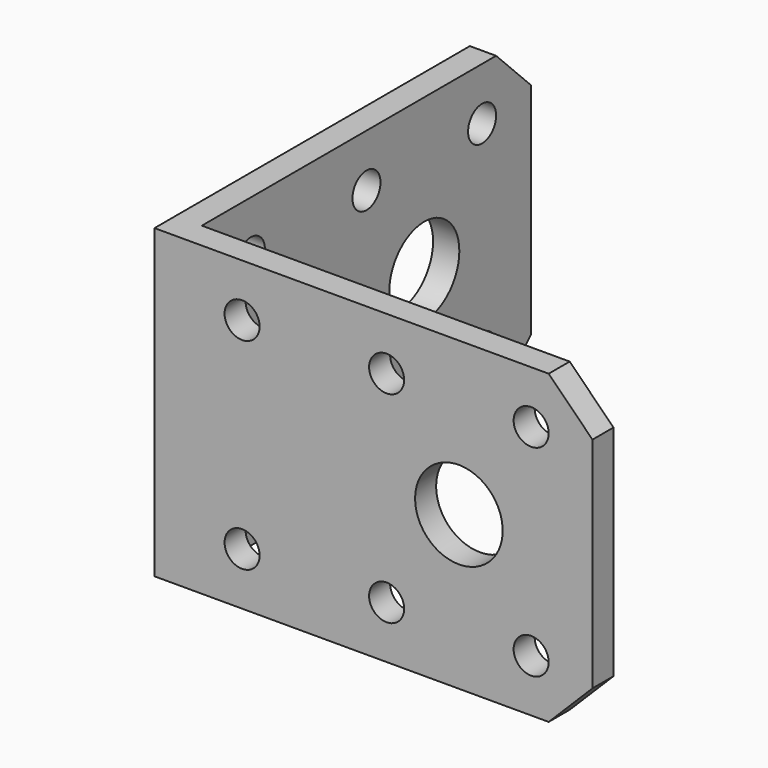
from build123d import *

# Parameters (mm, degrees)
F1_DEPTH = 35
F2_R     = 5
F2_R_2   = 2
F3_DEPTH = 3
F4_R     = 5
F4_R_2   = 2
F5_DEPTH = 3
F6_SIZE  = 5
F7_SIZE  = 5


with BuildPart() as f1:
    # F0 (on Top) → F1 (new body)
    with BuildSketch(Plane.XY):
        Polygon((0, 50), (0, 0), (50, 0), (50, 3), (3, 3), (3, 50), align=None)
    extrude(amount=F1_DEPTH)

    # F2 (on face) → F3 (cut, through all)
    with BuildSketch(Plane(origin=(0, 3, 0), x_dir=(-1, 0, 0), z_dir=(0, 1, 0))):
        with Locations((-34.75, 17.5)):
            Circle(F2_R)
        with Locations((-43, 29)):
            Circle(F2_R_2)
        with Locations((-26.5, 29)):
            Circle(F2_R_2)
        with Locations((-10, 29)):
            Circle(F2_R_2)
        with Locations((-43, 6)):
            Circle(F2_R_2)
        with Locations((-26.5, 6)):
            Circle(F2_R_2)
        with Locations((-10, 6)):
            Circle(F2_R_2)
    extrude(amount=-F3_DEPTH, mode=Mode.SUBTRACT)

    # F4 (on face) → F5 (cut, through all)
    with BuildSketch(Plane.YZ.offset(3)):
        with Locations((34.75, 17.5)):
            Circle(F4_R)
        with Locations((10, 29)):
            Circle(F4_R_2)
        with Locations((26.5, 29)):
            Circle(F4_R_2)
        with Locations((43, 29)):
            Circle(F4_R_2)
        with Locations((10, 6)):
            Circle(F4_R_2)
        with Locations((26.5, 6)):
            Circle(F4_R_2)
        with Locations((43, 6)):
            Circle(F4_R_2)
    extrude(amount=-F5_DEPTH, mode=Mode.SUBTRACT)

    # F6
    f6_edges = [f1.edges().sort_by_distance(p)[0] for p in [
        (50, 1.5, 35),
        (50, 1.5, 0),
    ]]
    chamfer(f6_edges, length=F6_SIZE)

    # F7
    f7_edges = [f1.edges().sort_by_distance(p)[0] for p in [
        (1.5, 50, 35),
        (1.5, 50, 0),
    ]]
    chamfer(f7_edges, length=F7_SIZE)


solid = f1.part
